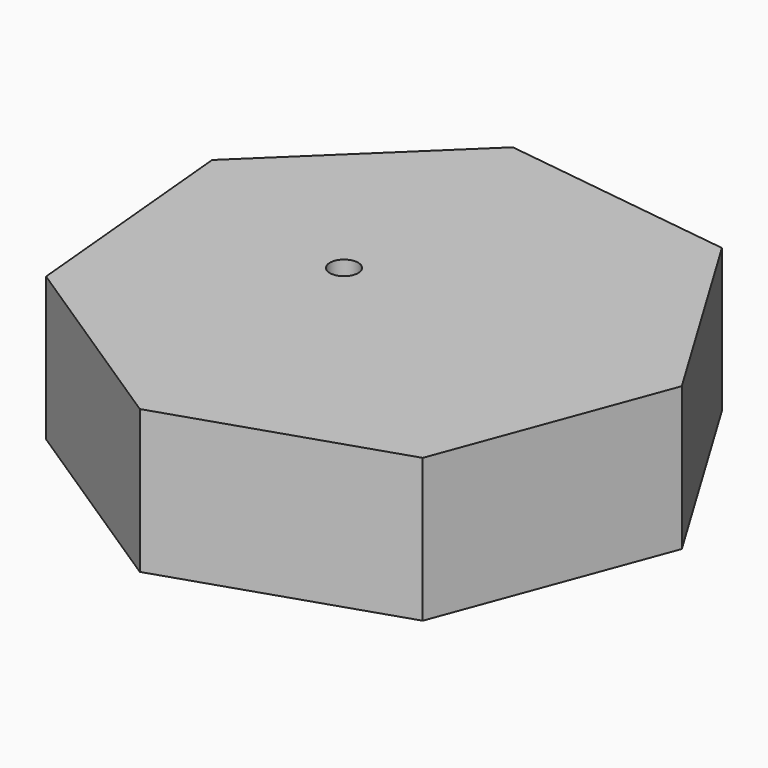
from build123d import *

# Parameters (mm, degrees)
F1_DEPTH = 25.4
F3_D     = 5


with BuildPart() as f1:
    # F0 (on Top) → F1 (new body)
    with BuildSketch(Plane.XY):
        Polygon((9.6509127394, -82.5714557813), (49.3506559654, -69.5419669702), (63.9161764502, -30.379704473), (42.3793401864, 5.4253492852), (0.9578241519, 10.9112585346), (-29.1571252343, -18.0529782818), (-25.2883368514, -59.6567000784), align=None)
    extrude(amount=F1_DEPTH)

    # F3 (through all)
    with Locations(Plane.XY.offset(25.4)):
        with Locations((5.285049323, -31.8954698741)):
            Hole(F3_D / 2)


solid = f1.part
